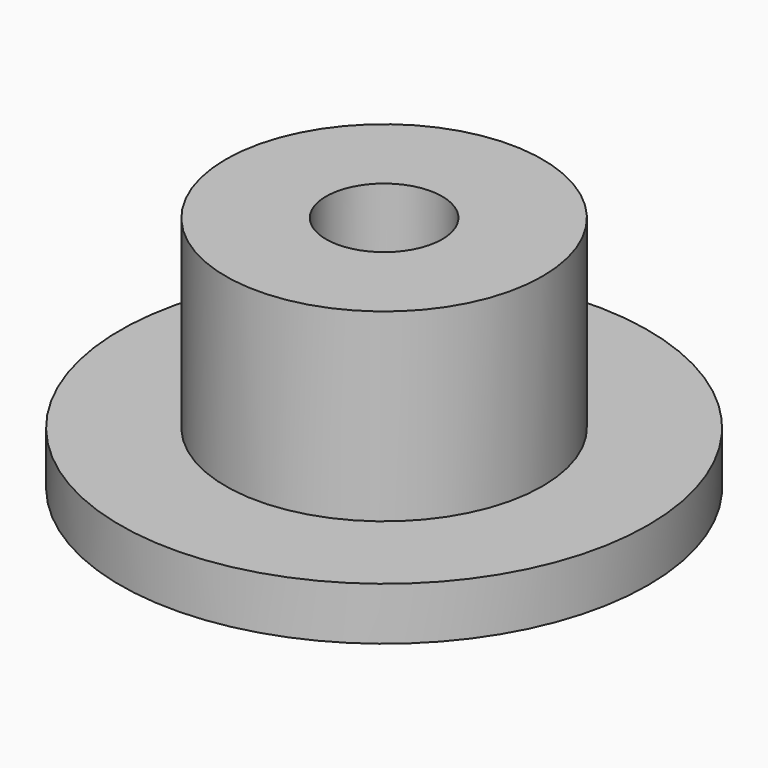
from build123d import *


with BuildPart() as part:
    # Sketch → Revolution (revolve)
    with BuildSketch(Plane.XZ):
        Polygon((4.65, 0), (10, 0), (10, 2), (6, 2), (6, 9), (2.2, 9), (2.2, 3), (4.1, 3), (4.1, 0.6), (4.65, 0.6), align=None)
    revolve(axis=Axis((0, 0, 0), (0, 0, 1)))


solid = part.part
